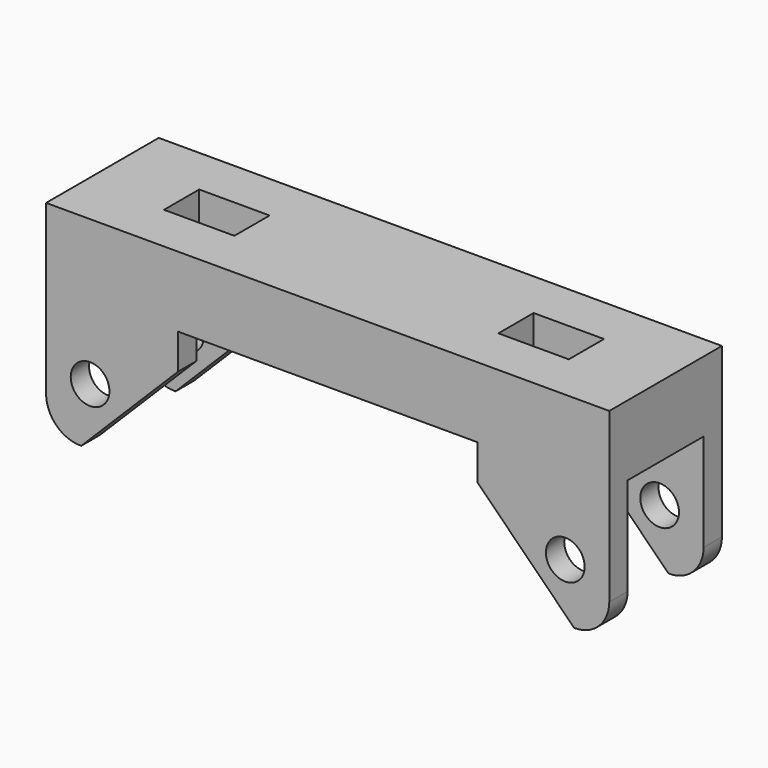
from build123d import *

# Parameters (mm, degrees)
SKETCH_W        = 64
SKETCH_H        = 16
PAD_DEPTH       = 8
SKETCH001_W     = 15
SKETCH001_H     = 2.6
PAD001_DEPTH    = 15
SKETCH002_R     = 2.2
POCKET_DEPTH    = 16
CHAMFER_SIZE    = 11
CHAMFER001_SIZE = 11
CHAMFER002_SIZE = 11
CHAMFER003_SIZE = 11
FILLET_R        = 3.9
FILLET001_R     = 3.9
FILLET002_R     = 3.9
FILLET003_R     = 3.9
SKETCH004_W     = 8
SKETCH004_H     = 5
POCKET001_DEPTH = 8


with BuildPart() as part:
    # Sketch → Pad (new body)
    with BuildSketch(Plane.XY):
        Rectangle(SKETCH_W, SKETCH_H)
    extrude(amount=PAD_DEPTH)

    # Sketch001 (on Face5 of Pad) → Pad001 (join)
    with BuildSketch(Plane(origin=(0, 0, 0), x_dir=(1, 0, 0), z_dir=(0, 0, -1))):
        with Locations((-24.5, 6.7)):
            Rectangle(SKETCH001_W, SKETCH001_H)
        with Locations((-24.5, -6.7)):
            Rectangle(SKETCH001_W, SKETCH001_H)
        with Locations((24.5, 6.7)):
            Rectangle(SKETCH001_W, SKETCH001_H)
        with Locations((24.5, -6.7)):
            Rectangle(SKETCH001_W, SKETCH001_H)
    extrude(amount=PAD001_DEPTH)

    # Sketch002 (on Face4 of Pad001) → Pocket (cut)
    with BuildSketch(Plane(origin=(0, 8, 0), x_dir=(-1, 0, 0), z_dir=(0, 1, 0))):
        with Locations((-27, -8.5)):
            Circle(SKETCH002_R)
        with Locations((27, -8.5)):
            Circle(SKETCH002_R)
    extrude(amount=-POCKET_DEPTH, mode=Mode.SUBTRACT)

    # Chamfer
    chamfer_edges = [part.edges().sort_by_distance(p)[0] for p in [
        (17, 6.7, -15),
    ]]
    chamfer(chamfer_edges, length=CHAMFER_SIZE)

    # Chamfer001
    chamfer001_edges = [part.edges().sort_by_distance(p)[0] for p in [
        (17, -6.7, -15),
    ]]
    chamfer(chamfer001_edges, length=CHAMFER001_SIZE)

    # Chamfer002
    chamfer002_edges = [part.edges().sort_by_distance(p)[0] for p in [
        (-17, 6.7, -15),
    ]]
    chamfer(chamfer002_edges, length=CHAMFER002_SIZE)

    # Chamfer003
    chamfer003_edges = [part.edges().sort_by_distance(p)[0] for p in [
        (-17, -6.7, -15),
    ]]
    chamfer(chamfer003_edges, length=CHAMFER003_SIZE)

    # Fillet
    fillet_edges = [part.edges().sort_by_distance(p)[0] for p in [
        (-32, 6.7, -15),
    ]]
    fillet(fillet_edges, radius=FILLET_R)

    # Fillet001
    fillet001_edges = [part.edges().sort_by_distance(p)[0] for p in [
        (-32, -6.7, -15),
    ]]
    fillet(fillet001_edges, radius=FILLET001_R)

    # Fillet002
    fillet002_edges = [part.edges().sort_by_distance(p)[0] for p in [
        (32, -6.7, -15),
    ]]
    fillet(fillet002_edges, radius=FILLET002_R)

    # Fillet003
    fillet003_edges = [part.edges().sort_by_distance(p)[0] for p in [
        (32, 6.7, -15),
    ]]
    fillet(fillet003_edges, radius=FILLET003_R)

    # Sketch004 (on Face21 of Fillet003) → Pocket001 (cut)
    with BuildSketch(Plane.XY.offset(8)):
        with Locations((-19, 0)):
            Rectangle(SKETCH004_W, SKETCH004_H)
        with Locations((19, 0)):
            Rectangle(SKETCH004_W, SKETCH004_H)
    extrude(amount=-POCKET001_DEPTH, mode=Mode.SUBTRACT)


solid = part.part
